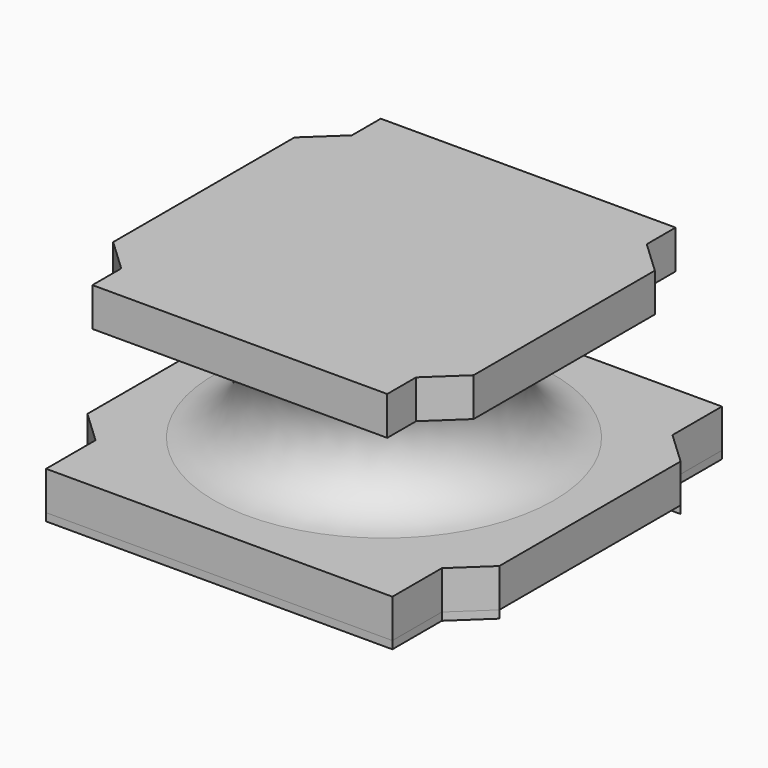
from build123d import *

# Parameters (mm, degrees)
F0_W     = 6.72587
F0_H     = 1.2
F0_W_2   = 8
F0_H_2   = 4.4
F1_DEPTH = 0.75
F6_DEPTH = 0.75
F7_DEPTH = 0.15


with BuildPart() as f1:
    # F0 (on Top) → F1 (new body)
    with BuildSketch(Plane.XY):
        with Locations((0, 3.4)):
            Rectangle(F0_W, F0_H)
        Polygon((3.362935, 2.8), (-3.362935, 2.8), (-4, 2.2), (4, 2.2), align=None)
        Rectangle(F0_W_2, F0_H_2)
        Polygon((4, -2.2), (-4, -2.2), (-3.362935, -2.8), (3.362935, -2.8), align=None)
        with Locations((0, -3.4)):
            Rectangle(F0_W, F0_H)
    extrude(amount=F1_DEPTH)


with BuildPart() as f2_1:
    # F2: copy of F1
    add(f1.part.moved(Location((0, 0, 3.1))))

    # F5 (on face) → F6 (cut)
    with BuildSketch(Plane.XY.offset(3.85)):
        Polygon((-2.862935, 4), (-3.362935, 4), (-3.362935, 2.8), (-4, 2.2), (-4, -2.2), (-3.362935, -2.8), (-3.362935, -4), (3.362935, -4), (3.362935, -2.8), (4, -2.2), (4, 2.2), (3.362935, 2.8), (3.362935, 4), align=None)
        Polygon((-2.862935, 2.8), (-2.862935, 3.5), (0, 3.5), (2.862935, 3.5), (2.862935, 2.8), (3.5, 2.2), (3.5, -2.2), (2.862935, -2.8), (2.862935, -3.499964), (0, -3.499964), (-2.862935, -3.499964), (-2.862935, -2.8), (-3.5, -2.2), (-3.5, 2.2), align=None, mode=Mode.SUBTRACT)
    extrude(amount=-F6_DEPTH, mode=Mode.SUBTRACT)


with BuildPart() as f4:
    # F3 (on Front) → F4 (revolve)
    with BuildSketch(Plane.XZ):
        with BuildLine():
            Line((0, 0.75), (3.300383, 0.75))
            ThreePointArc((3.300383, 0.75), (2.22096, 1.925), (3.300383, 3.1))
            Line((3.300383, 3.1), (0, 3.1))
            Line((0, 3.1), (0, 0.75))
        make_face()
    revolve(axis=Axis((0, 0, 1.925), (0, 0, -1)))


with BuildPart() as f7:
    # F0 (on Top) → F7 (new body)
    with BuildSketch(Plane.XY):
        with Locations((0, -3.4)):
            Rectangle(F0_W, F0_H)
        Polygon((4, -2.2), (-4, -2.2), (-3.362935, -2.8), (3.362935, -2.8), align=None)
        Polygon((3.362935, 2.8), (-3.362935, 2.8), (-4, 2.2), (4, 2.2), align=None)
        with Locations((0, 3.4)):
            Rectangle(F0_W, F0_H)
    extrude(amount=-F7_DEPTH)


solid = Compound([f1.part, f2_1.part, f4.part, f7.part])
